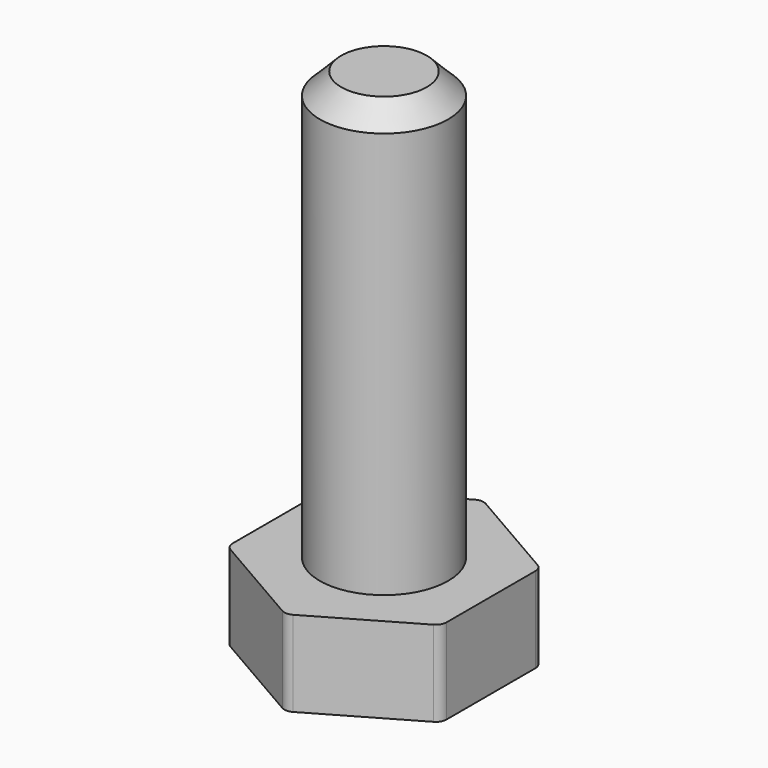
from build123d import *

# Parameters (mm, degrees)
F1_DEPTH = 4
F2_R     = 3
F3_DEPTH = 20
F4_SIZE  = 1
F5_R     = 0.5


with BuildPart() as f1:
    # F0 (on Top) → F1 (new body)
    with BuildSketch(Plane.XY):
        Polygon((5, -2.886751), (5, 2.886751), (0, 5.773503), (-5, 2.886751), (-5, -2.886751), (0, -5.773503), align=None)
    extrude(amount=F1_DEPTH)

    # F2 (on face) → F3 (join)
    with BuildSketch(Plane.XY.offset(4)):
        Circle(F2_R)
    extrude(amount=F3_DEPTH)

    # F4
    f4_edges = [f1.edges().sort_by_distance(p)[0] for p in [
        (-3, 0, 24),
    ]]
    chamfer(f4_edges, length=F4_SIZE)

    # F5
    f5_edges = [f1.edges().sort_by_distance(p)[0] for p in [
        (0, -5.773503, 2),
        (5, -2.886751, 2),
        (5, 2.886751, 2),
        (-5, -2.886751, 2),
        (0, 5.773503, 2),
        (-5, 2.886751, 2),
    ]]
    fillet(f5_edges, radius=F5_R)


solid = f1.part
